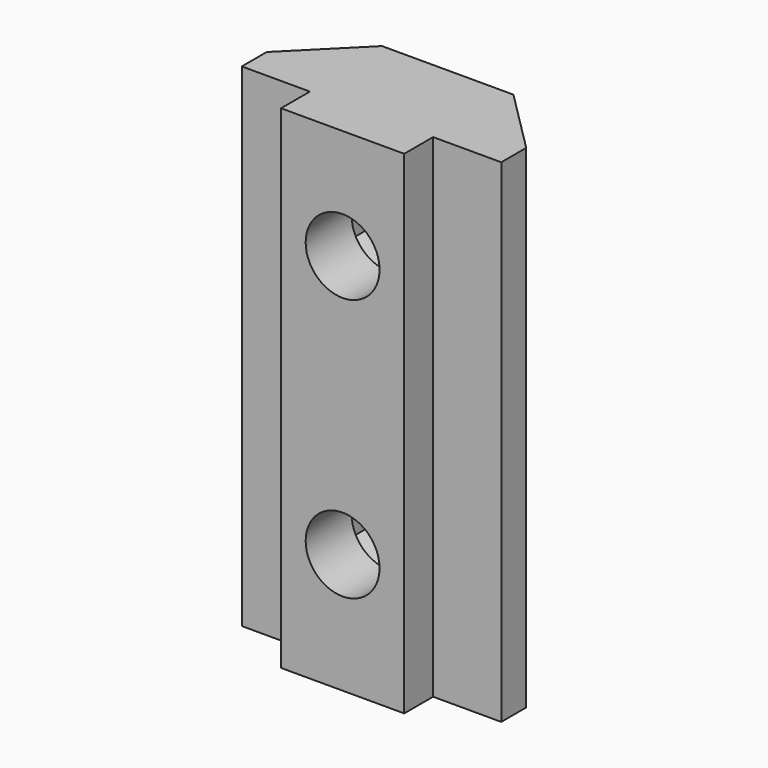
from build123d import *

# Parameters (mm, degrees)
PAD002_DEPTH           = 30
POCKET_DEPTH           = 4.5
LINEARPATTERN_COUNT    = 2
LINEARPATTERN_PITCH    = 16
SKETCH003_R            = 2.25
HOLE_DEPTH             = 25
LINEARPATTERN001_COUNT = 2
LINEARPATTERN001_PITCH = 16


with BuildPart() as part:
    # Sketch002 → Pad002 (new body)
    with BuildSketch(Plane.XY):
        Polygon((0, 0), (0, 8), (-4, 8), (-7.9, 4.1), (-7.9, 2.2), (-3.75, 2.2), (-3.75, 0), align=None)
    pad002 = extrude(amount=PAD002_DEPTH)

    # Mirrored: Pad002 across Sketch002 V_Axis
    add(pad002.mirror(Plane(origin=(0, 0, 0), x_dir=(0, 0, 1), z_dir=(1, 0, 0))))

    # Sketch (on DatumPlane) → Pocket (cut)
    with BuildSketch(Plane(origin=(0, 8, 0), x_dir=(-1, 0, 0), z_dir=(0, 1, 0))):
        Polygon((0, 2.727608), (3.7, 4.863804), (3.7, 9.136196), (0, 11.272392), (-3.7, 9.136196), (-3.7, 4.863804), align=None)
    pocket = extrude(amount=-POCKET_DEPTH, mode=Mode.SUBTRACT)

    # LinearPattern: Pocket ×2
    with Locations(*[(0, 0, i * LINEARPATTERN_PITCH) for i in range(1, LINEARPATTERN_COUNT)]):
        add(pocket, mode=Mode.SUBTRACT)

    # Sketch003 (on DatumPlane) → Hole (cut)
    with BuildSketch(Plane(origin=(0, 8, 0), x_dir=(-1, 0, 0), z_dir=(0, 1, 0))):
        with Locations((0, 7.3)):
            Circle(SKETCH003_R)
    hole = extrude(amount=-HOLE_DEPTH, mode=Mode.SUBTRACT)

    # LinearPattern001: Hole ×2
    with Locations(*[(0, 0, i * LINEARPATTERN001_PITCH) for i in range(1, LINEARPATTERN001_COUNT)]):
        add(hole, mode=Mode.SUBTRACT)


solid = part.part
